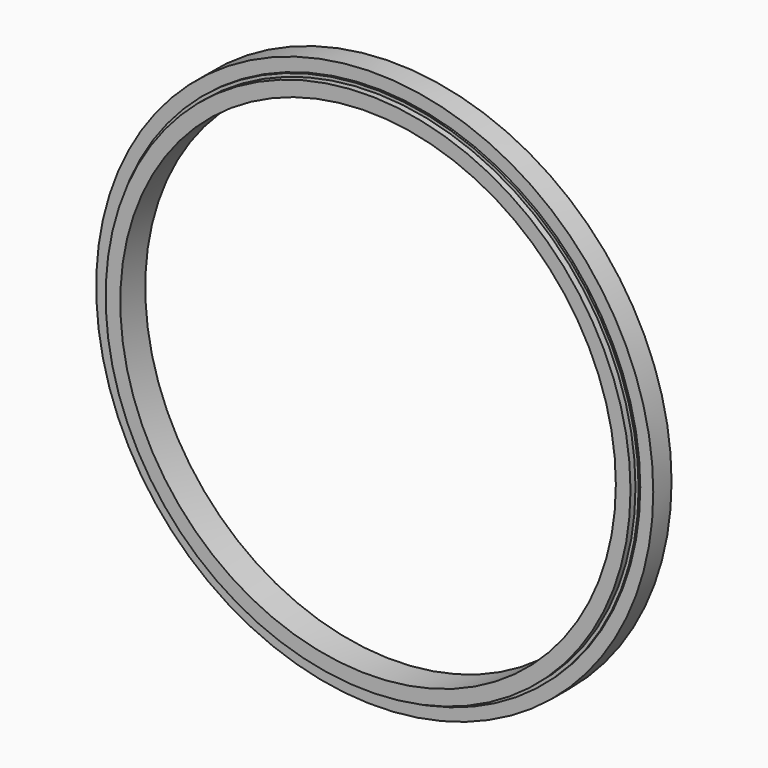
from build123d import *

# Parameters (mm, degrees)
F0_R        = 67
F0_R_2      = 59.6
F1_DEPTH    = 3.75
F2_R        = 63.875
F2_R_2      = 63.125
F3_DEPTH    = 1.5
F3_FACE_R   = 67
F3_FACE_R_2 = 63.875
F4_DEPTH    = 2


with BuildPart() as f1:
    # F0 (on Front) → F1 (new body, symmetric)
    with BuildSketch(Plane.XZ):
        Circle(F0_R)
        Circle(F0_R_2, mode=Mode.SUBTRACT)
    extrude(amount=F1_DEPTH, both=True)

    # F2 (on face) → F3 (cut)
    with BuildSketch(Plane.XZ.offset(3.75)):
        Circle(F2_R)
        Circle(F2_R_2, mode=Mode.SUBTRACT)
    extrude(amount=-F3_DEPTH, mode=Mode.SUBTRACT)

    # F3_face (on face) → F4 (cut)
    with BuildSketch(Plane.XZ.offset(3.75)):
        Circle(F3_FACE_R)
        Circle(F3_FACE_R_2, mode=Mode.SUBTRACT)
    extrude(amount=-F4_DEPTH, mode=Mode.SUBTRACT)


solid = f1.part
